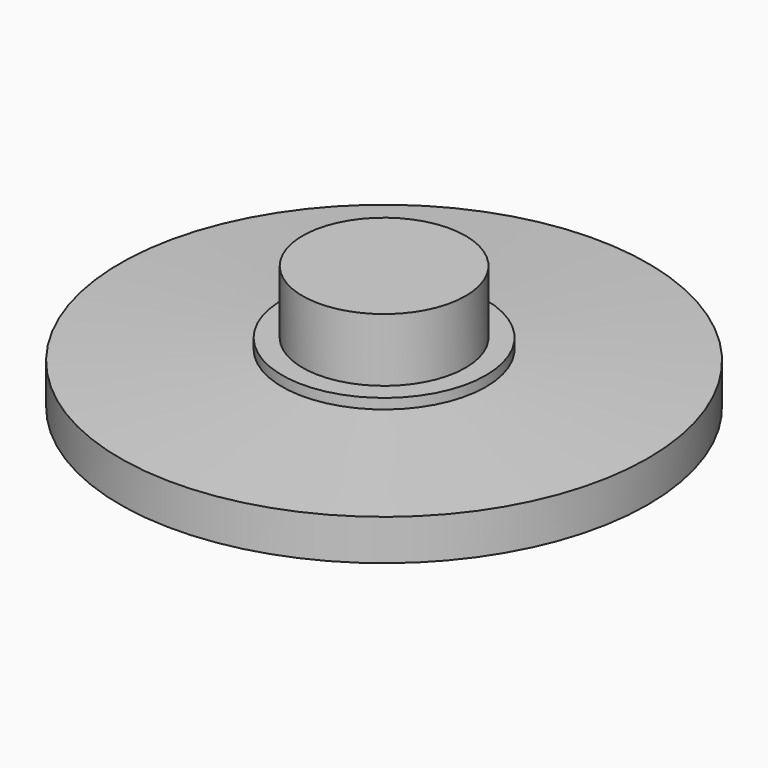
from build123d import *

# Parameters (mm, degrees)
F0_R     = 4
F1_DEPTH = 3.6
F0_R_2   = 5
F2_DEPTH = 0.5
F0_R_3   = 12.95
F3_DEPTH = 2.5
F4_SIZE2 = 8
F4_SIZE  = 0.5


with BuildPart() as f1:
    # F0 (on Top) → F1 (new body)
    with BuildSketch(Plane.XY):
        Circle(F0_R)
    extrude(amount=F1_DEPTH)

    # F0 (on Top) → F2 (join)
    with BuildSketch(Plane.XY):
        Circle(F0_R_2)
        Circle(F0_R, mode=Mode.SUBTRACT)
    extrude(amount=F2_DEPTH)


with BuildPart() as f3:
    # F0 (on Top) → F3 (new body)
    with BuildSketch(Plane.XY):
        Circle(F0_R_3)
        Circle(F0_R_2, mode=Mode.SUBTRACT)
        Circle(F0_R_2)
        Circle(F0_R, mode=Mode.SUBTRACT)
        Circle(F0_R)
    extrude(amount=-F3_DEPTH)

    # F4
    f4_edges = [f3.edges().sort_by_distance(p)[0] for p in [
        (-12.95, 0, 0),
    ]]
    chamfer(f4_edges, length=F4_SIZE, length2=F4_SIZE2)


solid = Compound([f1.part, f3.part])
